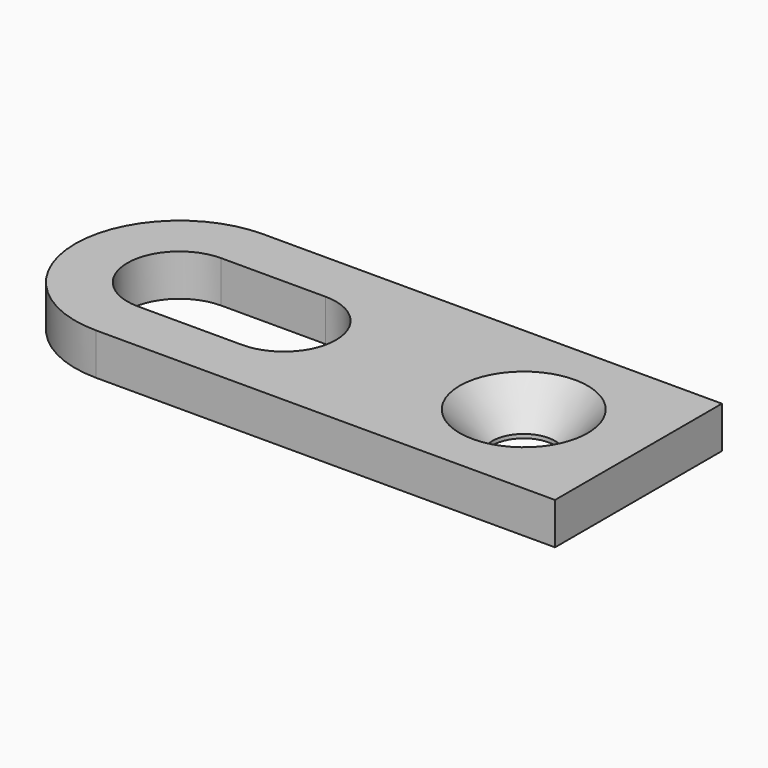
from build123d import *

# Parameters (mm, degrees)
F1_DEPTH       = 2.54
F3_DEPTH       = 2.541
F5_D           = 3.7973
F5_CSINK_D     = 7.7978
F5_CSINK_ANGLE = 82


with BuildPart() as f1:
    # F0 (on Top) → F1 (new body)
    with BuildSketch(Plane.XY):
        with BuildLine():
            ThreePointArc((0, 6.35), (1.8598719395, 1.8598719395), (6.35, 0))
            Line((6.35, 0), (34.29, 0))
            Line((34.29, 0), (34.29, 12.7))
            Line((34.29, 12.7), (6.35, 12.7))
            ThreePointArc((6.35, 12.7), (1.8598719395, 10.8401280605), (0, 6.35))
        make_face()
    extrude(amount=F1_DEPTH)

    # F2 (on face) → F3 (cut, through all)
    with BuildSketch(Plane.XY.offset(2.54)):
        with BuildLine():
            Line((12.7, 9.525), (6.35, 9.525))
            ThreePointArc((6.35, 9.525), (3.175, 6.35), (6.35, 3.175))
            Line((6.35, 3.175), (12.7, 3.175))
            ThreePointArc((12.7, 3.175), (15.875, 6.35), (12.7, 9.525))
        make_face()
    extrude(amount=-F3_DEPTH, mode=Mode.SUBTRACT)

    # F5 (through all)
    with Locations(Plane.XY.offset(2.54)):
        with Locations((27.305, 6.35)):
            CounterSinkHole(F5_D / 2, F5_CSINK_D / 2, counter_sink_angle=F5_CSINK_ANGLE)


solid = f1.part
